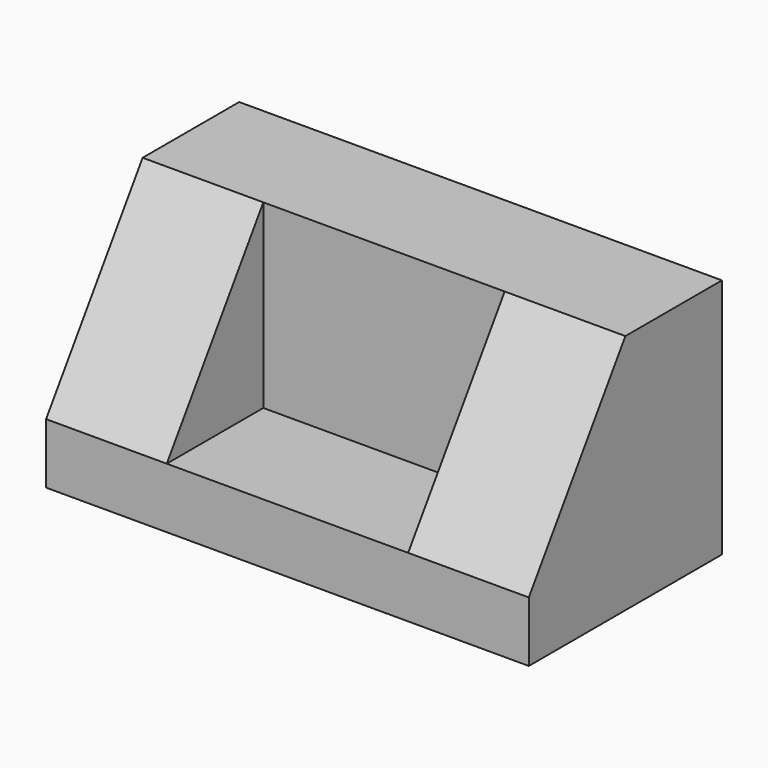
from build123d import *

# Parameters (mm, degrees)
F0_W     = 203.2
F0_H     = 101.6
F1_DEPTH = 101.6
F2_W     = 101.6
F2_H     = 76.2
F3_DEPTH = 50.8
F5_DEPTH = 50.8
F7_DEPTH = 50.8


with BuildPart() as f1:
    # F0 (on Front) → F1 (new body)
    with BuildSketch(Plane.XZ):
        with Locations((-39.505829, 21.651511)):
            Rectangle(F0_W, F0_H)
    extrude(amount=F1_DEPTH)

    # F2 (on face) → F3 (cut)
    with BuildSketch(Plane.XZ.offset(101.6)):
        with Locations((-39.505829, 34.351511)):
            Rectangle(F2_W, F2_H)
    extrude(amount=-F3_DEPTH, mode=Mode.SUBTRACT)

    # F4 (on face) → F5 (cut)
    with BuildSketch(Plane.YZ.offset(-90.305829)):
        Polygon((-101.6, 72.451511), (-101.6, -3.748489), (-50.8, 72.451511), align=None)
    extrude(amount=-F5_DEPTH, mode=Mode.SUBTRACT)

    # F6 (on face) → F7 (cut)
    with BuildSketch(Plane(origin=(11.294171, 0, 0), x_dir=(0, -1, 0), z_dir=(-1, 0, 0))):
        Polygon((101.6, 72.451511), (50.8, 72.451511), (101.6, -3.748489), align=None)
    extrude(amount=-F7_DEPTH, mode=Mode.SUBTRACT)


solid = f1.part
